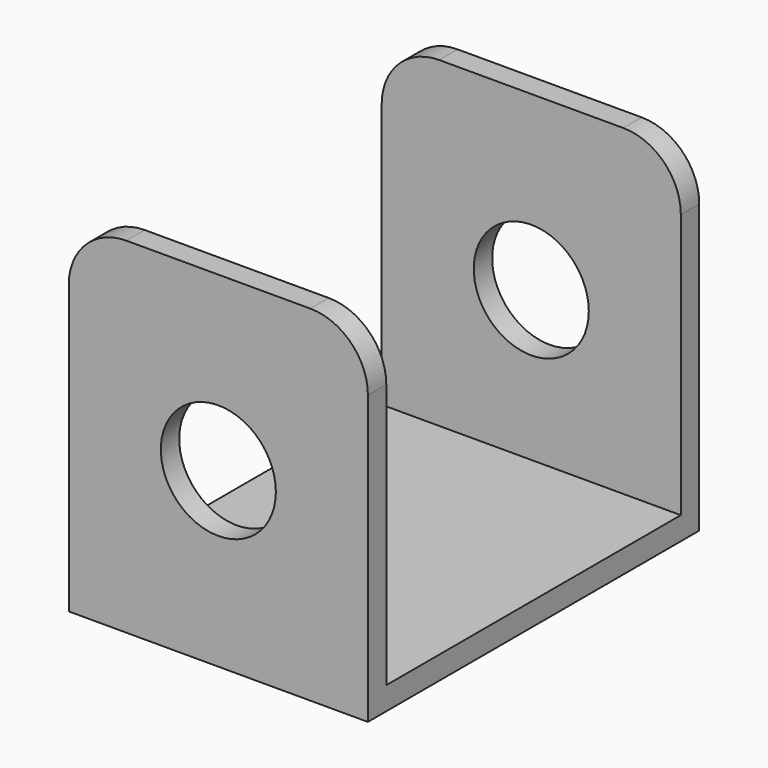
from build123d import *

# Parameters (mm, degrees)
F1_DEPTH = 13
F2_R     = 5
F3_DEPTH = 36.001
F4_R     = 5


with BuildPart() as f1:
    # F0 (on Right) → F1 (new body, symmetric)
    with BuildSketch(Plane.YZ):
        Polygon((18, -15), (18, 15), (16, 15), (16, -13), (-16, -13), (-16, 15), (-18, 15), (-18, -15), align=None)
    extrude(amount=F1_DEPTH, both=True)

    # F2 (on face) → F3 (cut, through all)
    with BuildSketch(Plane.XZ.offset(18)):
        Circle(F2_R)
    extrude(amount=-F3_DEPTH, mode=Mode.SUBTRACT)

    # F4
    f4_edges = [f1.edges().sort_by_distance(p)[0] for p in [
        (13, -17, 15),
        (-13, -17, 15),
        (13, 17, 15),
        (-13, 17, 15),
    ]]
    fillet(f4_edges, radius=F4_R)


solid = f1.part
